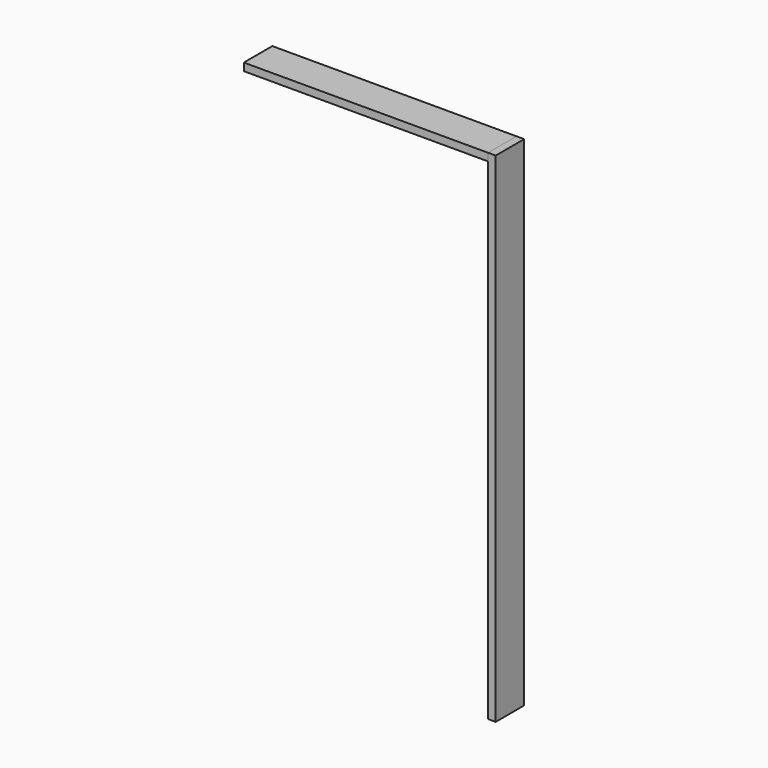
from build123d import *

# Parameters (mm, degrees)
F0_W     = 609.6
F0_H     = 19.05
F1_DEPTH = 88.9
F3_DEPTH = 88.9


with BuildPart() as f1:
    # F0 (on Front) → F1 (new body)
    with BuildSketch(Plane.XZ):
        with Locations((304.8, 9.525)):
            Rectangle(F0_W, F0_H)
    extrude(amount=F1_DEPTH)


with BuildPart() as f3:
    # F2 (on face) → F3 (new body)
    with BuildSketch(Plane(origin=(0, 0, 0), x_dir=(-1, 0, 0), z_dir=(0, 1, 0))):
        Polygon((-609.6, 0), (-609.6, 19.05), (-628.65, 19.05), (-628.65, -1225.55), (-609.6, -1225.55), align=None)
    extrude(amount=-F3_DEPTH)


solid = Compound([f1.part, f3.part])
